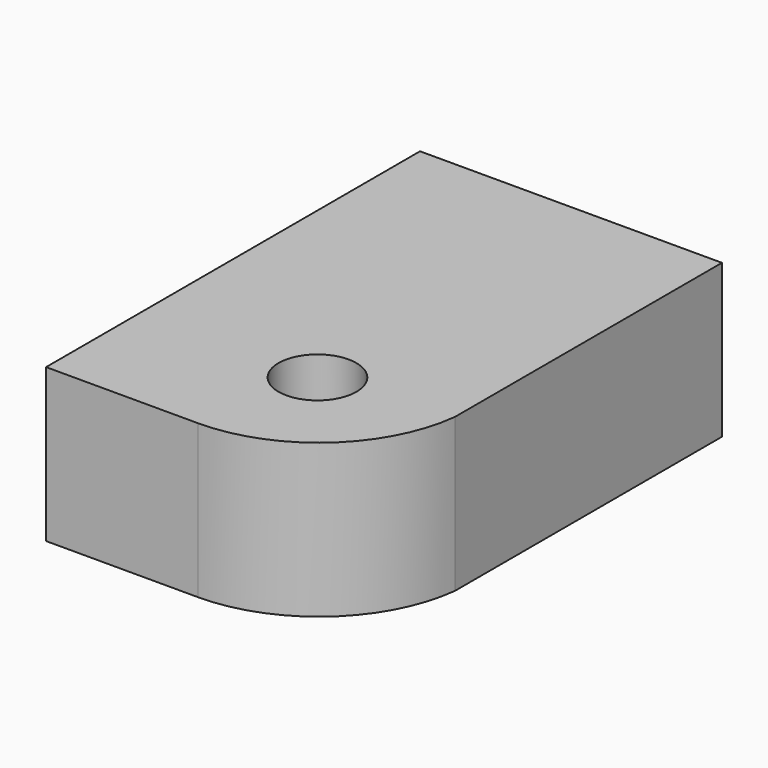
from build123d import *

# Parameters (mm, degrees)
F0_W     = 98.4343141317
F0_H     = 49.9388501048
F1_DEPTH = 152.4
F3_DEPTH = 25.4
F4_DEPTH = 101.6
F6_D     = 25.4


with BuildPart() as f1:
    # F0 (on Front) → F1 (new body)
    with BuildSketch(Plane.XZ):
        with Locations((49.2171570659, -24.9694250524)):
            Rectangle(F0_W, F0_H)
        with Locations((49.2171570659, -24.9694250524)):
            Rectangle(F0_W, F0_H)
    extrude(amount=F1_DEPTH)

    # F2 (on face) → F3 (join)
    with BuildSketch(Plane(origin=(0, 0, -49.9388501048), x_dir=(1, 0, 0), z_dir=(0, 0, -1))):
        with BuildLine():
            ThreePointArc((49.4931302965, 152.4), (82.2706467442, 139.9142220829), (98.4343141317, 108.7855200338))
            Line((98.4343141317, 108.7855200338), (98.4343141317, 152.4))
            Line((98.4343141317, 152.4), (49.4931302965, 152.4))
        make_face()
    extrude(amount=F3_DEPTH)

    # F4 (cut): a face of the model
    f4_faces = [f1.faces().sort_by_distance(p)[0] for p in [
        (87.4379245135, -141.7394263284, -75.3388501048),
    ]]
    extrude(f4_faces, amount=-F4_DEPTH, mode=Mode.SUBTRACT)

    # F6 (through all)
    with Locations(Plane(origin=(0, 0, -49.9388501048), x_dir=(1, 0, 0), z_dir=(0, 0, -1))):
        with Locations((57.5145594776, 113.6788129807)):
            Hole(F6_D / 2)


solid = f1.part
